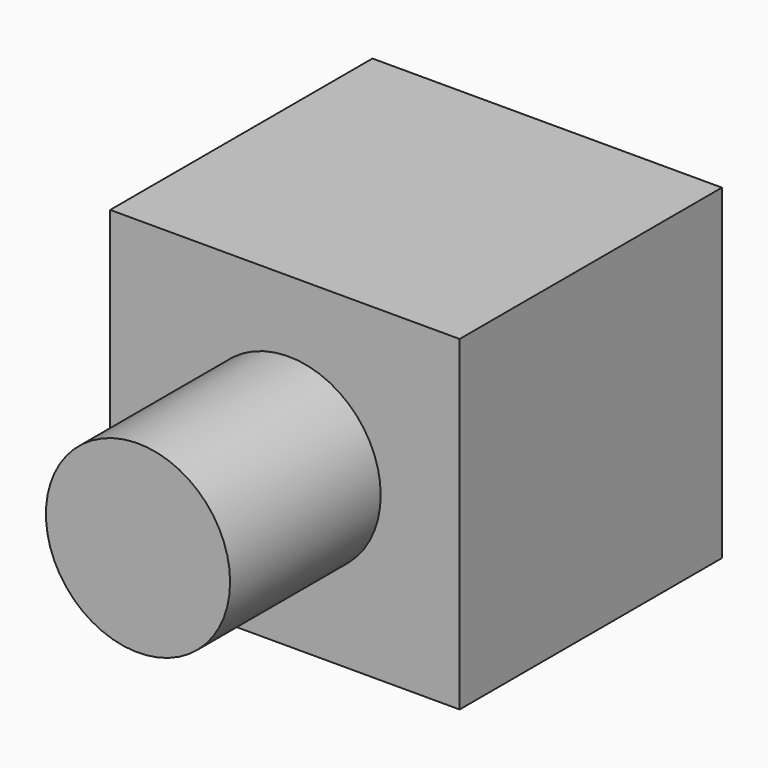
from build123d import *

# Parameters (mm, degrees)
F0_R     = 6.435747
F1_DEPTH = 36.068
F0_W     = 24.422144
F0_H     = 22.794694
F2_DEPTH = 22.9108


with BuildPart() as f1:
    # F0 (on Front) → F1 (new body)
    with BuildSketch(Plane.XZ):
        with Locations((34.520473, -11.397347)):
            Circle(F0_R)
    extrude(amount=F1_DEPTH)

    # F0 (on Front) → F2 (join)
    with BuildSketch(Plane.XZ):
        with Locations((34.260665, -11.397347)):
            Rectangle(F0_W, F0_H)
        with Locations((34.520473, -11.397347)):
            Circle(F0_R, mode=Mode.SUBTRACT)
    extrude(amount=F2_DEPTH)


solid = f1.part
